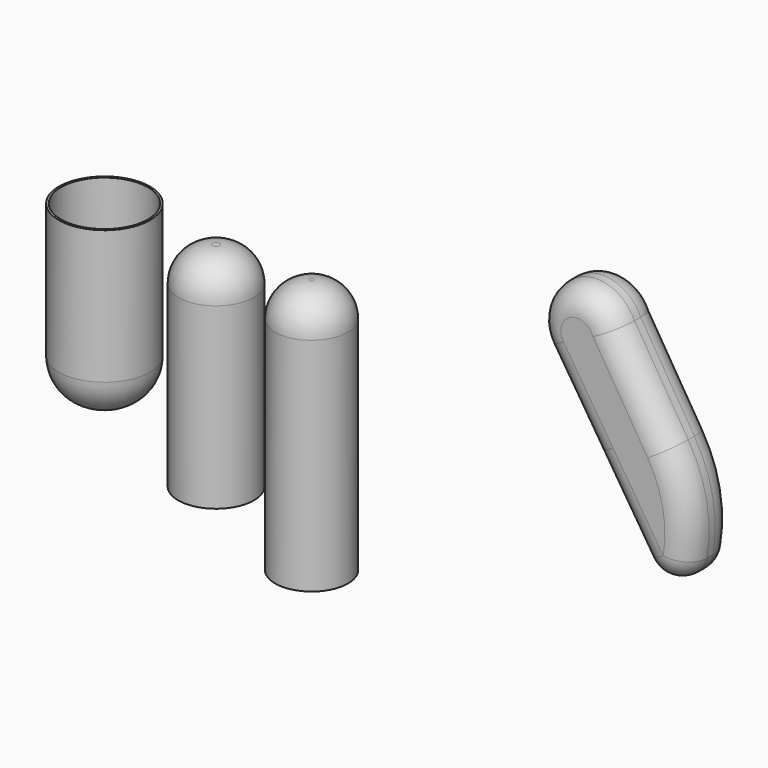
from build123d import *

# Parameters (mm, degrees)
F1_DEPTH  = 7.112
F2_R      = 3.0734
F3_R      = 4.5628970618
F4_DEPTH  = 32.004
F5_R      = 4.2924717139
F6_T      = -0.254
F3_R_2    = 4.740769309
F7_DEPTH  = 26.67
F8_R      = 4.2924717139
F9_T      = -0.254
F3_R_3    = 5.7096605668
F10_DEPTH = 21.844
F11_R     = 5.08
F12_T     = -0.254


with BuildPart() as f1:
    # F0 (on Front) → F1 (new body)
    with BuildSketch(Plane.XZ):
        with BuildLine():
            ThreePointArc((1.2384984202, 8.1719410095), (-5.8796689245, 10.6473187467), (-7.7865170277, 3.3562466993))
            Line((-7.7865170277, 3.3562466993), (-1.5857602384, -6.3384565623))
            Line((-1.5857602384, -6.3384565623), (7.9629379816, -21.2675690756))
            ThreePointArc((7.9629379816, -21.2675690756), (10.5821997742, -12.0123159448), (7.9629379816, -2.7570628141))
            Line((7.9629379816, -2.7570628141), (1.2384984202, 8.1719410095))
        make_face()
        with BuildLine():
            ThreePointArc((7.2723874958, -3.7478940867), (3.8140446675, -8.3624849467), (-1.5857602384, -6.3384565623))
            ThreePointArc((-1.5857602384, -6.3384565623), (-1.6082075168, -6.303021288), (-1.6303447849, -6.2673915206))
            ThreePointArc((-1.6303447849, -6.2673915206), (-0.0549883894, 0.3469597426), (6.5593628738, -1.2283966529))
            ThreePointArc((6.5593628738, -1.2283966529), (7.0906983342, -2.4386699433), (7.2723874958, -3.7478940867))
        make_face(mode=Mode.SUBTRACT)
        with BuildLine():
            ThreePointArc((-1.6303447849, -6.2673915206), (-1.6082075168, -6.303021288), (-1.5857602384, -6.3384565623))
            ThreePointArc((-1.5857602384, -6.3384565623), (3.8140446675, -8.3624849467), (7.2723874958, -3.7478940867))
            ThreePointArc((7.2723874958, -3.7478940867), (7.0906983342, -2.4386699433), (6.5593628738, -1.2283966529))
            Line((6.5593628738, -1.2283966529), (2.4645090444, -3.7478940867))
            Line((2.4645090444, -3.7478940867), (-1.6303447849, -6.2673915206))
        make_face()
        with BuildLine():
            ThreePointArc((6.5593628738, -1.2283966529), (-0.0549883894, 0.3469597426), (-1.6303447849, -6.2673915206))
            Line((-1.6303447849, -6.2673915206), (2.4645090444, -3.7478940867))
            Line((2.4645090444, -3.7478940867), (6.5593628738, -1.2283966529))
        make_face()
    extrude(amount=F1_DEPTH)

    # F2
    f2_edges = [f1.edges().sort_by_distance(p)[0] for p in [
        (0.08821, 0, -8.955661),
        (-5.879669, 0, 10.647319),
        (-5.879669, -7.112, 10.647319),
        (0.08821, -7.112, -8.955661),
        (4.600718, 0, 2.707439),
        (10.5822, 0, -12.012316),
        (7.962938, -3.556, -21.267569),
        (4.600718, -7.112, 2.707439),
        (10.5822, -7.112, -12.012316),
    ]]
    fillet(f2_edges, radius=F2_R)


with BuildPart() as f4:
    # F3 (on Top) → F4 (new body)
    with BuildSketch(Plane.XY):
        with Locations((-38.6379137635, -4.7554378398)):
            Circle(F3_R)
    extrude(amount=-F4_DEPTH)

    # F5
    f5_edges = [f4.edges().sort_by_distance(p)[0] for p in [
        (-43.200811, -4.755438, 0),
    ]]
    fillet(f5_edges, radius=F5_R)

    # F6
    f6_openings = [f4.faces().sort_by_distance(p)[0] for p in [
        (-38.637914, -4.755438, -32.004),
    ]]
    offset(amount=F6_T, openings=f6_openings)


with BuildPart() as f7:
    # F3 (on Top) → F7 (new body)
    with BuildSketch(Plane.XY):
        with Locations((-50.6012812257, -4.7554378398)):
            Circle(F3_R_2)
    extrude(amount=-F7_DEPTH)

    # F8
    f8_edges = [f7.edges().sort_by_distance(p)[0] for p in [
        (-55.342051, -4.755438, 0),
    ]]
    fillet(f8_edges, radius=F8_R)

    # F9
    f9_openings = [f7.faces().sort_by_distance(p)[0] for p in [
        (-50.601281, -4.755438, -26.67),
    ]]
    offset(amount=F9_T, openings=f9_openings)


with BuildPart() as f10:
    # F3 (on Top) → F10 (new body)
    with BuildSketch(Plane.XY):
        with Locations((-64.5835995674, -4.7554378398)):
            Circle(F3_R_3)
    extrude(amount=-F10_DEPTH)

    # F11
    f11_edges = [f10.edges().sort_by_distance(p)[0] for p in [
        (-70.29326, -4.755438, -21.844),
    ]]
    fillet(f11_edges, radius=F11_R)

    # F12
    f12_openings = [f10.faces().sort_by_distance(p)[0] for p in [
        (-64.5836, -4.755438, 0),
    ]]
    offset(amount=F12_T, openings=f12_openings)


solid = Compound([f1.part, f4.part, f7.part, f10.part])
